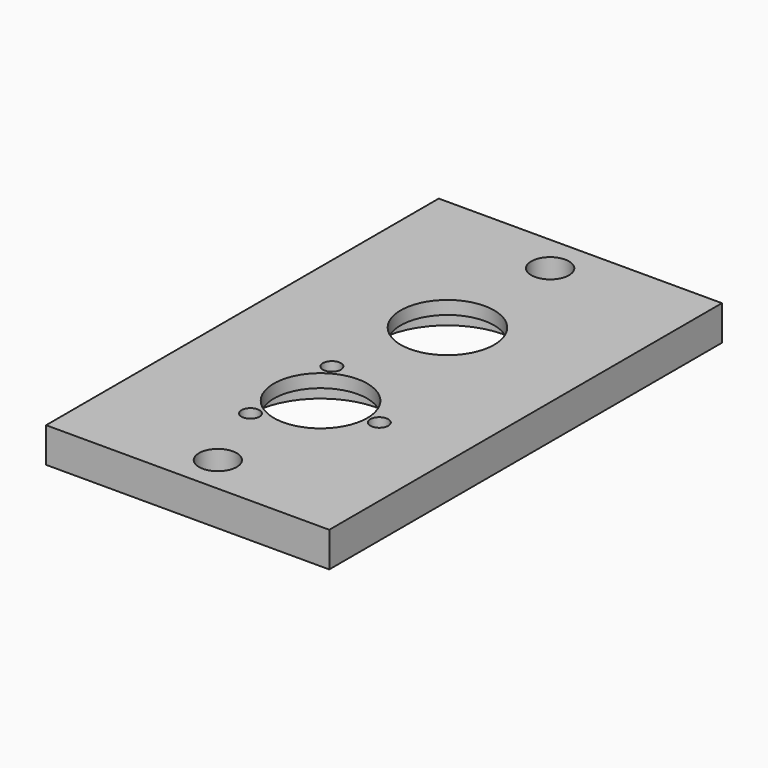
from build123d import *

# Parameters (mm, degrees)
F0_W      = 150
F0_H      = 260
F1_DEPTH  = 18.5
F2_R      = 10
F3_DEPTH  = 25.4
F4_R      = 24.75
F5_DEPTH  = 25.4
F6_R      = 37.5
F7_DEPTH  = 11.5
F8_R      = 3.5
F9_DEPTH  = 25.4
F10_R     = 4.75
F10_R_2   = 3.5
F11_DEPTH = 6


with BuildPart() as f1:
    # F0 (on Top) → F1 (new body)
    with BuildSketch(Plane.XY):
        with Locations((75, 130)):
            Rectangle(F0_W, F0_H)
    extrude(amount=F1_DEPTH)

    # F2 (on face) → F3 (cut)
    with BuildSketch(Plane.XY.offset(18.5)):
        with Locations((75, 240)):
            Circle(F2_R)
        with Locations((75, 20)):
            Circle(F2_R)
    extrude(amount=-F3_DEPTH, mode=Mode.SUBTRACT)

    # F4 (on face) → F5 (cut)
    with BuildSketch(Plane.XY.offset(18.5)):
        with Locations((75, 172)):
            Circle(F4_R)
        with Locations((75, 88)):
            Circle(F4_R)
    extrude(amount=-F5_DEPTH, mode=Mode.SUBTRACT)

    # F6 (on face) → F7 (cut)
    with BuildSketch(Plane(origin=(0, 0, 0), x_dir=(1, 0, 0), z_dir=(0, 0, -1))):
        with Locations((75, -88)):
            Circle(F6_R)
        with Locations((75, -172)):
            Circle(F6_R)
    extrude(amount=-F7_DEPTH, mode=Mode.SUBTRACT)

    # F8 (on face) → F9 (cut)
    with BuildSketch(Plane(origin=(0, 0, 11.5), x_dir=(1, 0, 0), z_dir=(0, 0, -1))):
        with Locations((106.125, -88)):
            Circle(F8_R)
        with Locations((59.4375, -61.0449593072)):
            Circle(F8_R)
        with Locations((59.4375, -114.9550406928)):
            Circle(F8_R)
    extrude(amount=-F9_DEPTH, mode=Mode.SUBTRACT)

    # F10 (on face) → F11 (cut)
    with BuildSketch(Plane.XY.offset(18.5)):
        with Locations((59.4375, 61.0449593072)):
            Circle(F10_R)
        with Locations((59.4375, 61.0449593072)):
            Circle(F10_R_2, mode=Mode.SUBTRACT)
        with Locations((59.4375, 114.9550406928)):
            Circle(F10_R)
        with Locations((59.4375, 114.9550406928)):
            Circle(F10_R_2, mode=Mode.SUBTRACT)
        with Locations((106.125, 88)):
            Circle(F10_R)
        with Locations((106.125, 88)):
            Circle(F10_R_2, mode=Mode.SUBTRACT)
    extrude(amount=-F11_DEPTH, mode=Mode.SUBTRACT)


solid = f1.part
